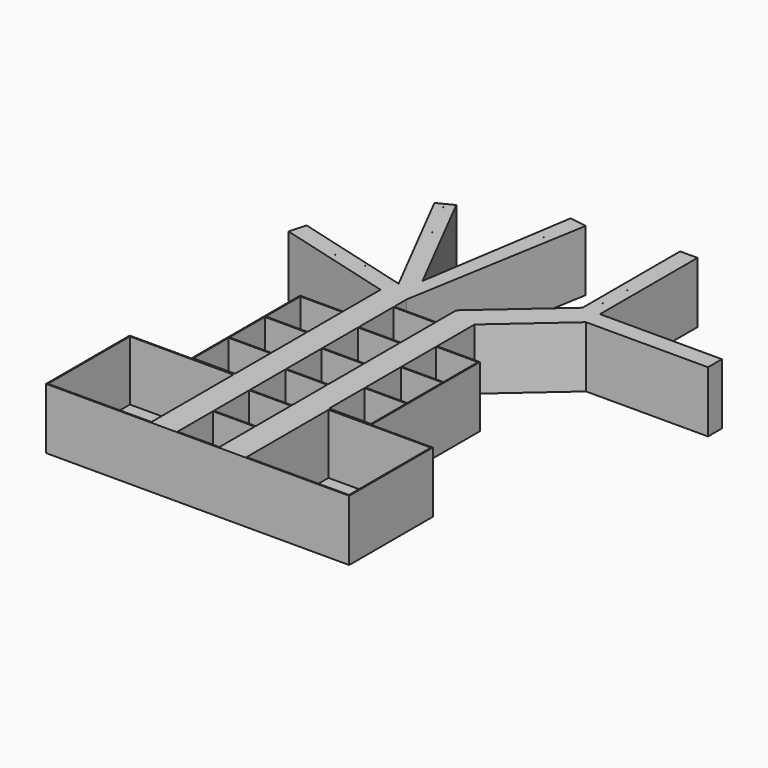
from build123d import *

# Parameters (mm, degrees)
F0_W     = 588
F0_H     = 6
F0_W_2   = 240
F0_R     = 0.75
F1_DEPTH = 350
F0_H_2   = 588
F2_DEPTH = 6


with BuildPart() as f1:
    # F0 (on Top) → F1 (new body)
    with BuildSketch(Plane.XY):
        with Locations((1131.3658022881, -154.7376276255)):
            Rectangle(F0_W, F0_H)
        Polygon((831.3658022881, 442.2623723745), (831.3658022881, -157.7376276255), (837.3658022881, -157.7376276255), (837.3658022881, -151.7376276255), (837.3658022881, 436.2623723745), (837.3658022881, 442.2623723745), align=None)
        Polygon((285.3658022881, 436.2623723745), (291.3658022881, 436.2623723745), (291.3658022881, 442.2623723745), (51.3658022881, 442.2623723745), (45.3658022881, 442.2623723745), (-302.6341977119, 442.2623723745), (-302.6341977119, 436.2623723745), align=None)
        with Locations((951.3658022881, 1219.2623723745)):
            Rectangle(F0_W_2, F0_H)
        Polygon((-308.6341977119, -157.7376276255), (-302.6341977119, -157.7376276255), (-302.6341977119, -151.7376276255), (-302.6341977119, 436.2623723745), (-302.6341977119, 442.2623723745), (-308.6341977119, 442.2623723745), align=None)
        Polygon((-302.6341977119, -157.7376276255), (291.3658022881, -157.7376276255), (291.3658022881, -151.7376276255), (285.3658022881, -151.7376276255), (-302.6341977119, -151.7376276255), align=None)
        Polygon((1071.3658022881, 442.2623723745), (837.3658022881, 442.2623723745), (837.3658022881, 436.2623723745), (1425.3658022881, 436.2623723745), (1431.3658022881, 436.2623723745), (1431.3658022881, 442.2623723745), (1077.3658022881, 442.2623723745), align=None)
        Polygon((291.3658022881, -151.7376276255), (291.3658022881, -157.7376276255), (441.3658022881, -157.7376276255), (441.3658022881, -151.7376276255), (441.3658022881, 102.2623723745), (441.3658022881, 108.2623723745), (441.3658022881, 362.2623723745), (441.3658022881, 368.2623723745), (441.3658022881, 622.2623723745), (441.3658022881, 628.2623723745), (441.3658022881, 882.2623723745), (441.3658022881, 888.2623723745), (441.3658022881, 1142.2623723745), (441.3658022881, 1148.2623723745), (441.3658022881, 1396.2623723745), (441.3658022881, 1402.2623723745), (441.3658022881, 1492.2623723745), (291.3658022881, 1492.2623723745), (291.3658022881, 1222.2623723745), (291.3658022881, 1216.2623723745), (291.3658022881, 968.2623723745), (291.3658022881, 962.2623723745), (291.3658022881, 708.2623723745), (291.3658022881, 702.2623723745), (291.3658022881, 448.2623723745), (291.3658022881, 442.2623723745), (291.3658022881, 436.2623723745), align=None)
        with Locations((171.3658022881, 1219.2623723745)):
            Rectangle(F0_W_2, F0_H)
        Polygon((1425.3658022881, -151.7376276255), (1425.3658022881, -157.7376276255), (1431.3658022881, -157.7376276255), (1431.3658022881, 436.2623723745), (1425.3658022881, 436.2623723745), align=None)
        with Locations((561.3658022881, -154.7376276255)):
            Rectangle(F0_W_2, F0_H)
        Polygon((681.3658022881, -151.7376276255), (681.3658022881, -157.7376276255), (831.3658022881, -157.7376276255), (831.3658022881, 442.2623723745), (831.3658022881, 448.2623723745), (831.3658022881, 702.2623723745), (831.3658022881, 708.2623723745), (831.3658022881, 962.2623723745), (831.3658022881, 968.2623723745), (831.3658022881, 1216.2623723745), (831.3658022881, 1222.2623723745), (831.3658022881, 1492.2623723745), (681.3658022881, 1492.2623723745), (681.3658022881, 1402.2623723745), (681.3658022881, 1396.2623723745), (681.3658022881, 1148.2623723745), (681.3658022881, 1142.2623723745), (681.3658022881, 888.2623723745), (681.3658022881, 882.2623723745), (681.3658022881, 628.2623723745), (681.3658022881, 622.2623723745), (681.3658022881, 368.2623723745), (681.3658022881, 362.2623723745), (681.3658022881, 108.2623723745), (681.3658022881, 102.2623723745), (681.3658022881, 7.2623723745), align=None)
        Polygon((-383.9351642411, 1676.5681091402), (291.3658022881, 1492.2623723745), (441.3658022881, 1492.2623723745), (622.2423832578, 2550.5042054476), (523.4306083625, 2565.8740831976), (385.101708613, 1676.5681091402), (42.5764871887, 2346.5661747919), (-46.4625771205, 2301.046453495), (317.6951932546, 1588.7339390216), (-357.6057732746, 1773.0396757873), align=None)
        with Locations((-309.3841977119, 1693.0772066116)):
            Circle(F0_R, mode=Mode.SUBTRACT)
        with Locations((-182.871773839, 1710.9059095383)):
            Circle(F0_R, mode=Mode.SUBTRACT)
        with Locations((-78.6427035928, 1630.676984787)):
            Circle(F0_R, mode=Mode.SUBTRACT)
        with Locations((92.7866697311, 1630.676984787)):
            Circle(F0_R, mode=Mode.SUBTRACT)
        with Locations((205.9300839901, 1542.9050922394)):
            Circle(F0_R, mode=Mode.SUBTRACT)
        with Locations((253.0225515366, 1818.6388015747)):
            Circle(F0_R, mode=Mode.SUBTRACT)
        with Locations((440.3941631317, 1844.5258140564)):
            Circle(F0_R, mode=Mode.SUBTRACT)
        with Locations((124.1076514125, 2072.3543167114)):
            Circle(F0_R, mode=Mode.SUBTRACT)
        with Locations((69.2502483726, 2201.2691497803)):
            Circle(F0_R, mode=Mode.SUBTRACT)
        with Locations((10.2785266936, 2293.1554317474)):
            Circle(F0_R, mode=Mode.SUBTRACT)
        with Locations((191.3079619408, 1929.7250509262)):
            Circle(F0_R, mode=Mode.SUBTRACT)
        with Locations((479.5362651348, 2019.0343856812)):
            Circle(F0_R, mode=Mode.SUBTRACT)
        with Locations((479.5362651348, 2178.8644790649)):
            Circle(F0_R, mode=Mode.SUBTRACT)
        with Locations((544.7731018066, 2346.8494415283)):
            Circle(F0_R, mode=Mode.SUBTRACT)
        with Locations((526.8329381943, 2487.1084690094)):
            Circle(F0_R, mode=Mode.SUBTRACT)
        Polygon((1071.3658022881, 702.2623723745), (1071.3658022881, 448.2623723745), (1071.3658022881, 442.2623723745), (1077.3658022881, 442.2623723745), (1077.3658022881, 1222.2623723745), (1071.3658022881, 1222.2623723745), (1071.3658022881, 1216.2623723745), (1071.3658022881, 968.2623723745), (1071.3658022881, 962.2623723745), (1071.3658022881, 708.2623723745), align=None)
        Polygon((681.3658022881, 1492.2623723745), (831.3658022881, 1492.2623723745), (1207.488313467, 1821.7041071084), (1907.488313467, 1821.7041071084), (1907.488313467, 1921.7041071084), (1207.488313467, 1921.7041071084), (1207.488313467, 2621.7041071084), (1107.488313467, 2621.7041071084), (1107.488313467, 1921.7041071084), (681.3658022881, 1548.4679005014), align=None)
        with Locations((830.6158022881, 1588.7731313705)):
            Circle(F0_R, mode=Mode.SUBTRACT)
        with Locations((927.0566105843, 1728.4172773361)):
            Circle(F0_R, mode=Mode.SUBTRACT)
        with Locations((1078.1158022881, 1782.7233076096)):
            Circle(F0_R, mode=Mode.SUBTRACT)
        with Locations((1278.1064510345, 1895.2144384384)):
            Circle(F0_R, mode=Mode.SUBTRACT)
        with Locations((1448.7826824188, 1844.7873592377)):
            Circle(F0_R, mode=Mode.SUBTRACT)
        with Locations((1619.4587945938, 1901.0329246521)):
            Circle(F0_R, mode=Mode.SUBTRACT)
        with Locations((1778.4979343414, 1846.7268943787)):
            Circle(F0_R, mode=Mode.SUBTRACT)
        with Locations((1150.971531868, 2011.9640827179)):
            Circle(F0_R, mode=Mode.SUBTRACT)
        with Locations((1157.4952602386, 2178.8644790649)):
            Circle(F0_R, mode=Mode.SUBTRACT)
        with Locations((1157.4952602386, 2357.7191829681)):
            Circle(F0_R, mode=Mode.SUBTRACT)
        with Locations((1157.4952602386, 2524.0731239319)):
            Circle(F0_R, mode=Mode.SUBTRACT)
        Polygon((45.3658022881, 442.2623723745), (51.3658022881, 442.2623723745), (51.3658022881, 448.2623723745), (51.3658022881, 702.2623723745), (51.3658022881, 708.2623723745), (51.3658022881, 962.2623723745), (51.3658022881, 968.2623723745), (51.3658022881, 1216.2623723745), (51.3658022881, 1222.2623723745), (45.3658022881, 1222.2623723745), align=None)
        with Locations((561.3658022881, 1399.2623723745)):
            Rectangle(F0_W_2, F0_H)
        with Locations((951.3658022881, 965.2623723745)):
            Rectangle(F0_W_2, F0_H)
        with Locations((561.3658022881, 1145.2623723745)):
            Rectangle(F0_W_2, F0_H)
        with Locations((561.3658022881, 885.2623723745)):
            Rectangle(F0_W_2, F0_H)
        with Locations((561.3658022881, 625.2623723745)):
            Rectangle(F0_W_2, F0_H)
        with Locations((951.3658022881, 705.2623723745)):
            Rectangle(F0_W_2, F0_H)
        with Locations((561.3658022881, 365.2623723745)):
            Rectangle(F0_W_2, F0_H)
        Polygon((831.3658022881, 448.2623723745), (831.3658022881, 442.2623723745), (837.3658022881, 442.2623723745), (1071.3658022881, 442.2623723745), (1071.3658022881, 448.2623723745), align=None)
        with Locations((561.3658022881, 105.2623723745)):
            Rectangle(F0_W_2, F0_H)
        with Locations((171.3658022881, 705.2623723745)):
            Rectangle(F0_W_2, F0_H)
        with Locations((171.3658022881, 445.2623723745)):
            Rectangle(F0_W_2, F0_H)
        with Locations((171.3658022881, 965.2623723745)):
            Rectangle(F0_W_2, F0_H)
    extrude(amount=F1_DEPTH)

    # F0 (on Top) → F2 (join)
    with BuildSketch(Plane.XY):
        with Locations((1131.3658022881, -154.7376276255)):
            Rectangle(F0_W, F0_H)
        Polygon((831.3658022881, 442.2623723745), (831.3658022881, -157.7376276255), (837.3658022881, -157.7376276255), (837.3658022881, -151.7376276255), (837.3658022881, 436.2623723745), (837.3658022881, 442.2623723745), align=None)
        Polygon((285.3658022881, 436.2623723745), (291.3658022881, 436.2623723745), (291.3658022881, 442.2623723745), (51.3658022881, 442.2623723745), (45.3658022881, 442.2623723745), (-302.6341977119, 442.2623723745), (-302.6341977119, 436.2623723745), align=None)
        with Locations((951.3658022881, 1219.2623723745)):
            Rectangle(F0_W_2, F0_H)
        Polygon((-308.6341977119, -157.7376276255), (-302.6341977119, -157.7376276255), (-302.6341977119, -151.7376276255), (-302.6341977119, 436.2623723745), (-302.6341977119, 442.2623723745), (-308.6341977119, 442.2623723745), align=None)
        Polygon((-302.6341977119, -157.7376276255), (291.3658022881, -157.7376276255), (291.3658022881, -151.7376276255), (285.3658022881, -151.7376276255), (-302.6341977119, -151.7376276255), align=None)
        Polygon((1071.3658022881, 442.2623723745), (837.3658022881, 442.2623723745), (837.3658022881, 436.2623723745), (1425.3658022881, 436.2623723745), (1431.3658022881, 436.2623723745), (1431.3658022881, 442.2623723745), (1077.3658022881, 442.2623723745), align=None)
        Polygon((291.3658022881, -151.7376276255), (291.3658022881, -157.7376276255), (441.3658022881, -157.7376276255), (441.3658022881, -151.7376276255), (441.3658022881, 102.2623723745), (441.3658022881, 108.2623723745), (441.3658022881, 362.2623723745), (441.3658022881, 368.2623723745), (441.3658022881, 622.2623723745), (441.3658022881, 628.2623723745), (441.3658022881, 882.2623723745), (441.3658022881, 888.2623723745), (441.3658022881, 1142.2623723745), (441.3658022881, 1148.2623723745), (441.3658022881, 1396.2623723745), (441.3658022881, 1402.2623723745), (441.3658022881, 1492.2623723745), (291.3658022881, 1492.2623723745), (291.3658022881, 1222.2623723745), (291.3658022881, 1216.2623723745), (291.3658022881, 968.2623723745), (291.3658022881, 962.2623723745), (291.3658022881, 708.2623723745), (291.3658022881, 702.2623723745), (291.3658022881, 448.2623723745), (291.3658022881, 442.2623723745), (291.3658022881, 436.2623723745), align=None)
        with Locations((171.3658022881, 1219.2623723745)):
            Rectangle(F0_W_2, F0_H)
        Polygon((1425.3658022881, -151.7376276255), (1425.3658022881, -157.7376276255), (1431.3658022881, -157.7376276255), (1431.3658022881, 436.2623723745), (1425.3658022881, 436.2623723745), align=None)
        with Locations((561.3658022881, -154.7376276255)):
            Rectangle(F0_W_2, F0_H)
        Polygon((681.3658022881, -151.7376276255), (681.3658022881, -157.7376276255), (831.3658022881, -157.7376276255), (831.3658022881, 442.2623723745), (831.3658022881, 448.2623723745), (831.3658022881, 702.2623723745), (831.3658022881, 708.2623723745), (831.3658022881, 962.2623723745), (831.3658022881, 968.2623723745), (831.3658022881, 1216.2623723745), (831.3658022881, 1222.2623723745), (831.3658022881, 1492.2623723745), (681.3658022881, 1492.2623723745), (681.3658022881, 1402.2623723745), (681.3658022881, 1396.2623723745), (681.3658022881, 1148.2623723745), (681.3658022881, 1142.2623723745), (681.3658022881, 888.2623723745), (681.3658022881, 882.2623723745), (681.3658022881, 628.2623723745), (681.3658022881, 622.2623723745), (681.3658022881, 368.2623723745), (681.3658022881, 362.2623723745), (681.3658022881, 108.2623723745), (681.3658022881, 102.2623723745), (681.3658022881, 7.2623723745), align=None)
        Polygon((-383.9351642411, 1676.5681091402), (291.3658022881, 1492.2623723745), (441.3658022881, 1492.2623723745), (622.2423832578, 2550.5042054476), (523.4306083625, 2565.8740831976), (385.101708613, 1676.5681091402), (42.5764871887, 2346.5661747919), (-46.4625771205, 2301.046453495), (317.6951932546, 1588.7339390216), (-357.6057732746, 1773.0396757873), align=None)
        with Locations((-309.3841977119, 1693.0772066116)):
            Circle(F0_R, mode=Mode.SUBTRACT)
        with Locations((-182.871773839, 1710.9059095383)):
            Circle(F0_R, mode=Mode.SUBTRACT)
        with Locations((-78.6427035928, 1630.676984787)):
            Circle(F0_R, mode=Mode.SUBTRACT)
        with Locations((92.7866697311, 1630.676984787)):
            Circle(F0_R, mode=Mode.SUBTRACT)
        with Locations((205.9300839901, 1542.9050922394)):
            Circle(F0_R, mode=Mode.SUBTRACT)
        with Locations((253.0225515366, 1818.6388015747)):
            Circle(F0_R, mode=Mode.SUBTRACT)
        with Locations((440.3941631317, 1844.5258140564)):
            Circle(F0_R, mode=Mode.SUBTRACT)
        with Locations((124.1076514125, 2072.3543167114)):
            Circle(F0_R, mode=Mode.SUBTRACT)
        with Locations((69.2502483726, 2201.2691497803)):
            Circle(F0_R, mode=Mode.SUBTRACT)
        with Locations((10.2785266936, 2293.1554317474)):
            Circle(F0_R, mode=Mode.SUBTRACT)
        with Locations((191.3079619408, 1929.7250509262)):
            Circle(F0_R, mode=Mode.SUBTRACT)
        with Locations((479.5362651348, 2019.0343856812)):
            Circle(F0_R, mode=Mode.SUBTRACT)
        with Locations((479.5362651348, 2178.8644790649)):
            Circle(F0_R, mode=Mode.SUBTRACT)
        with Locations((544.7731018066, 2346.8494415283)):
            Circle(F0_R, mode=Mode.SUBTRACT)
        with Locations((526.8329381943, 2487.1084690094)):
            Circle(F0_R, mode=Mode.SUBTRACT)
        Polygon((1071.3658022881, 702.2623723745), (1071.3658022881, 448.2623723745), (1071.3658022881, 442.2623723745), (1077.3658022881, 442.2623723745), (1077.3658022881, 1222.2623723745), (1071.3658022881, 1222.2623723745), (1071.3658022881, 1216.2623723745), (1071.3658022881, 968.2623723745), (1071.3658022881, 962.2623723745), (1071.3658022881, 708.2623723745), align=None)
        Polygon((681.3658022881, 1492.2623723745), (831.3658022881, 1492.2623723745), (1207.488313467, 1821.7041071084), (1907.488313467, 1821.7041071084), (1907.488313467, 1921.7041071084), (1207.488313467, 1921.7041071084), (1207.488313467, 2621.7041071084), (1107.488313467, 2621.7041071084), (1107.488313467, 1921.7041071084), (681.3658022881, 1548.4679005014), align=None)
        with Locations((830.6158022881, 1588.7731313705)):
            Circle(F0_R, mode=Mode.SUBTRACT)
        with Locations((927.0566105843, 1728.4172773361)):
            Circle(F0_R, mode=Mode.SUBTRACT)
        with Locations((1078.1158022881, 1782.7233076096)):
            Circle(F0_R, mode=Mode.SUBTRACT)
        with Locations((1278.1064510345, 1895.2144384384)):
            Circle(F0_R, mode=Mode.SUBTRACT)
        with Locations((1448.7826824188, 1844.7873592377)):
            Circle(F0_R, mode=Mode.SUBTRACT)
        with Locations((1619.4587945938, 1901.0329246521)):
            Circle(F0_R, mode=Mode.SUBTRACT)
        with Locations((1778.4979343414, 1846.7268943787)):
            Circle(F0_R, mode=Mode.SUBTRACT)
        with Locations((1150.971531868, 2011.9640827179)):
            Circle(F0_R, mode=Mode.SUBTRACT)
        with Locations((1157.4952602386, 2178.8644790649)):
            Circle(F0_R, mode=Mode.SUBTRACT)
        with Locations((1157.4952602386, 2357.7191829681)):
            Circle(F0_R, mode=Mode.SUBTRACT)
        with Locations((1157.4952602386, 2524.0731239319)):
            Circle(F0_R, mode=Mode.SUBTRACT)
        Polygon((45.3658022881, 442.2623723745), (51.3658022881, 442.2623723745), (51.3658022881, 448.2623723745), (51.3658022881, 702.2623723745), (51.3658022881, 708.2623723745), (51.3658022881, 962.2623723745), (51.3658022881, 968.2623723745), (51.3658022881, 1216.2623723745), (51.3658022881, 1222.2623723745), (45.3658022881, 1222.2623723745), align=None)
        with Locations((561.3658022881, 1399.2623723745)):
            Rectangle(F0_W_2, F0_H)
        with Locations((-8.6341977119, 142.2623723745)):
            Rectangle(F0_W, F0_H_2)
        with Locations((1131.3658022881, 142.2623723745)):
            Rectangle(F0_W, F0_H_2)
    extrude(amount=F2_DEPTH)


solid = f1.part
